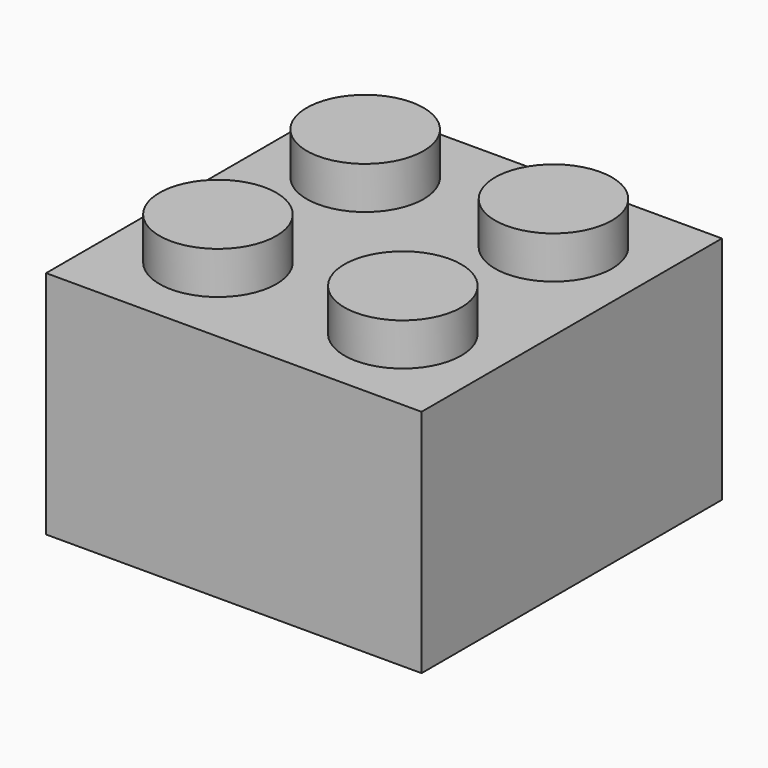
from build123d import *

# Parameters (mm, degrees)
F0_W     = 15.748
F0_H     = 15.748
F1_DEPTH = 9.652
F2_R     = 2.4511
F3_DEPTH = 1.778
F4_W     = 13.208
F4_H     = 13.208
F6_DEPTH = 8.382
F5_R     = 3.2385
F5_R_2   = 2.8575
F7_DEPTH = 8.382


with BuildPart() as f1:
    # F0 (on Top) → F1 (new body)
    with BuildSketch(Plane.XY):
        Rectangle(F0_W, F0_H)
    extrude(amount=F1_DEPTH)

    # F2 (on face) → F3 (join)
    with BuildSketch(Plane.XY.offset(9.652)):
        with Locations((-3.9497, 3.9497)):
            Circle(F2_R)
        with Locations((3.9497, 3.9497)):
            Circle(F2_R)
        with Locations((-3.9497, -3.769234)):
            Circle(F2_R)
        with Locations((3.9497, -3.9497)):
            Circle(F2_R)
    extrude(amount=F3_DEPTH)

    # F4 (on face) → F6 (cut)
    with BuildSketch(Plane(origin=(0, 0, 0), x_dir=(1, 0, 0), z_dir=(0, 0, -1))):
        Rectangle(F4_W, F4_H)
    extrude(amount=-F6_DEPTH, mode=Mode.SUBTRACT)

    # F5 (on face) → F7 (join)
    with BuildSketch(Plane(origin=(0, 0, 0), x_dir=(1, 0, 0), z_dir=(0, 0, -1))):
        Circle(F5_R)
        Circle(F5_R_2, mode=Mode.SUBTRACT)
    extrude(amount=-F7_DEPTH)


solid = f1.part
